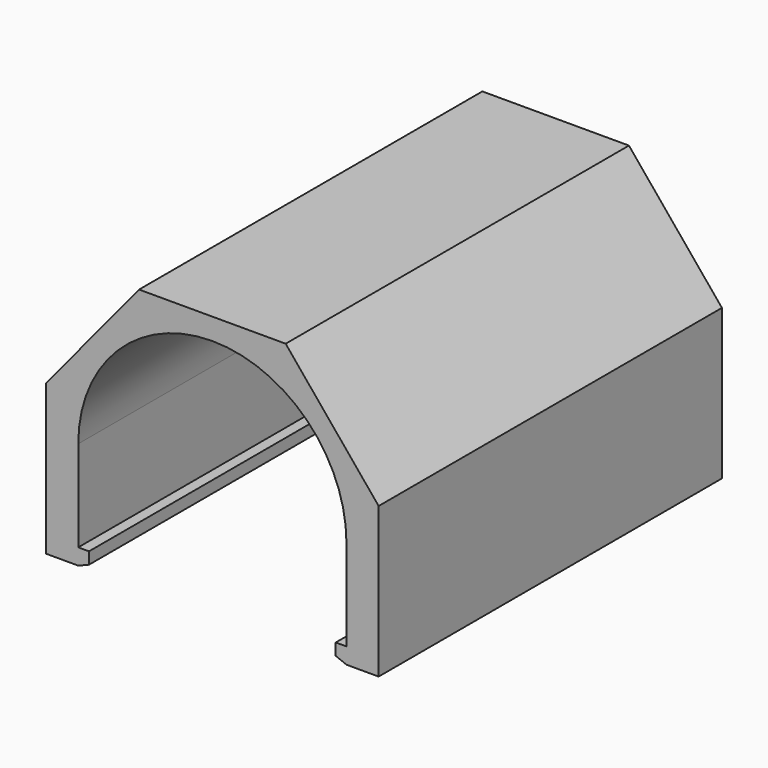
from build123d import *

# Parameters (mm, degrees)
F1_DEPTH = 20


with BuildPart() as f1:
    # F0 (on Front) → F1 (new body)
    with BuildSketch(Plane.XZ):
        with BuildLine():
            Line((0, 7), (0, 0))
            Line((0, 0), (1.5, 0))
            Line((1.5, 0), (2, 0.2))
            Line((2, 0.2), (2, 0.75))
            Line((2, 0.75), (1.5, 0.75))
            Line((1.5, 0.75), (1.5, 5))
            ThreePointArc((1.5, 5), (7.75, 11.25), (14, 5))
            Line((14, 5), (14, 0.75))
            Line((14, 0.75), (13.5, 0.75))
            Line((13.5, 0.75), (13.5, 0.2))
            Line((13.5, 0.2), (14, 0))
            Line((14, 0), (15.5, 0))
            Line((15.5, 0), (15.5, 7))
            Line((15.5, 7), (11.166384, 12.25))
            Line((11.166384, 12.25), (7.75, 12.25))
            Line((7.75, 12.25), (4.333616, 12.25))
            Line((4.333616, 12.25), (0, 7))
        make_face()
    extrude(amount=F1_DEPTH)


solid = f1.part
